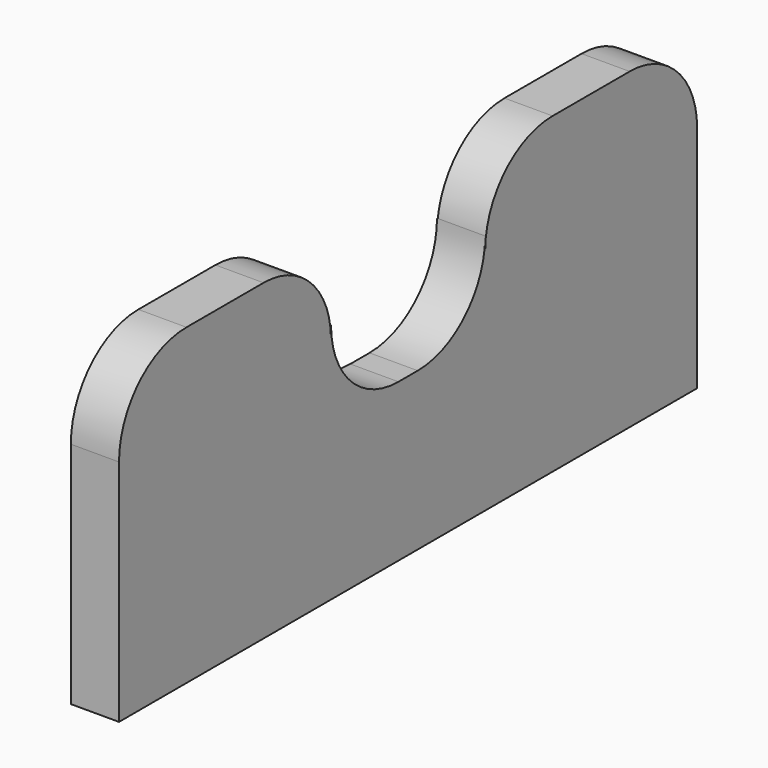
from build123d import *

# Parameters (mm, degrees)
F1_DEPTH = 12.7


with BuildPart() as f1:
    # F0 (on Right) → F1 (new body)
    with BuildSketch(Plane.YZ):
        with BuildLine():
            Line((-47.625, 88.9), (-73.025, 88.9))
            ThreePointArc((-73.025, 88.9), (-88.740448, 82.390448), (-95.25, 66.675))
            Line((-95.25, 66.675), (-95.25, 6.35))
            Line((-95.25, 6.35), (95.25, 6.35))
            Line((95.25, 6.35), (95.25, 66.675))
            ThreePointArc((95.25, 66.675), (88.740448, 82.390448), (73.025, 88.9))
            Line((73.025, 88.9), (47.625, 88.9))
            ThreePointArc((47.625, 88.9), (31.909552, 82.390448), (25.4, 66.675))
            Line((25.4, 66.675), (25.4, 70.083901))
            ThreePointArc((25.4, 70.083901), (18.890448, 54.368453), (3.175, 47.858901))
            Line((3.175, 47.858901), (-3.175, 47.858901))
            ThreePointArc((-3.175, 47.858901), (-18.890448, 54.368453), (-25.4, 70.083901))
            Line((-25.4, 70.083901), (-25.4, 66.675))
            ThreePointArc((-25.4, 66.675), (-31.909552, 82.390448), (-47.625, 88.9))
        make_face()
    extrude(amount=F1_DEPTH)


solid = f1.part
